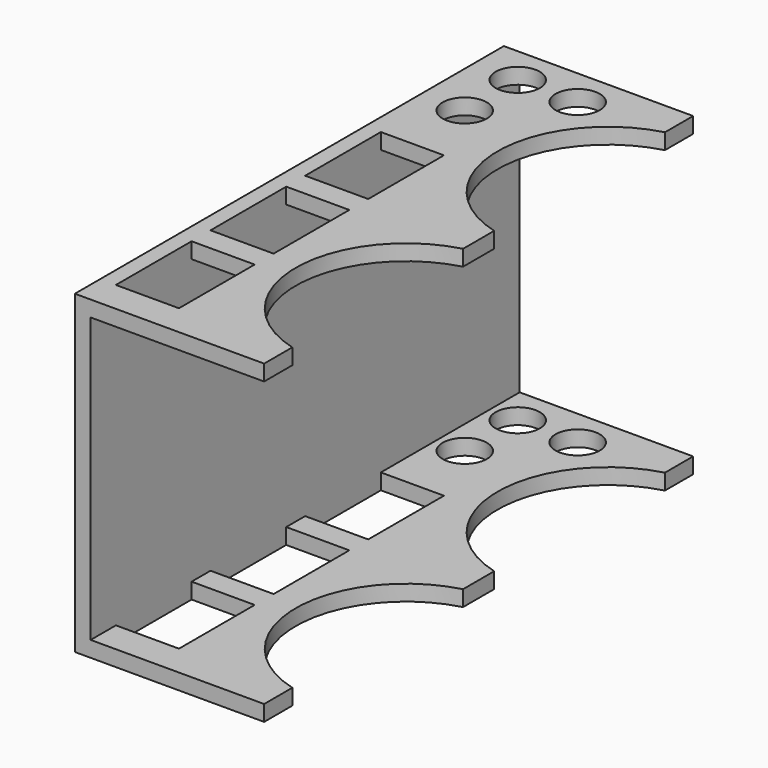
from build123d import *

# Parameters (mm, degrees)
F1_DEPTH = 431.8
F2_W     = 50.8
F2_H     = 76.2
F2_R     = 17.78
F3_DEPTH = 254.001


with BuildPart() as f1:
    # F0 (on Front) → F1 (new body)
    with BuildSketch(Plane.XZ):
        Polygon((0, 254), (0, 0), (152.4, 0), (152.4, 12.7), (12.7, 12.7), (12.7, 241.3), (152.4, 241.3), (152.4, 254), align=None)
    extrude(amount=F1_DEPTH)

    # F2 (on Top) → F3 (cut, through all)
    with BuildSketch(Plane.XY):
        with BuildLine():
            Line((152.4, -403.410595), (152.4, -231.589405))
            ThreePointArc((152.4, -231.589405), (86.36, -317.5), (152.4, -403.410595))
        make_face()
        with BuildLine():
            Line((152.4, -200.210595), (152.4, -28.389405))
            ThreePointArc((152.4, -28.389405), (86.36, -114.3), (152.4, -200.210595))
        make_face()
        with Locations((38.1, -368.3)):
            Rectangle(F2_W, F2_H)
        with Locations((38.1, -273.05)):
            Rectangle(F2_W, F2_H)
        with Locations((38.1, -177.8)):
            Rectangle(F2_W, F2_H)
        with Locations((35.56, -83.82)):
            Circle(F2_R)
        with Locations((35.56, -30.48)):
            Circle(F2_R)
        with Locations((83.82, -30.48)):
            Circle(F2_R)
    extrude(amount=F3_DEPTH, mode=Mode.SUBTRACT)


solid = f1.part
